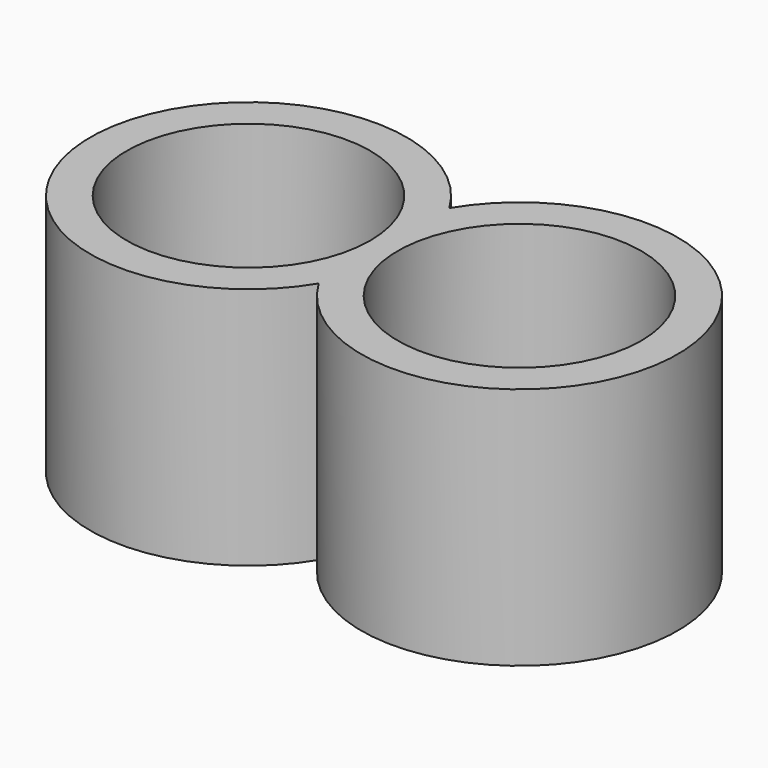
from build123d import *

# Parameters (mm, degrees)
F0_R     = 2
F1_DEPTH = 4


with BuildPart() as f1:
    # F0 (on Top) → F1 (new body)
    with BuildSketch(Plane.XY):
        with BuildLine():
            ThreePointArc((2.226748, -1.342234), (7.053497, 0), (2.226748, 1.342234))
            ThreePointArc((2.226748, 1.342234), (-2.6, 0), (2.226748, -1.342234))
        make_face()
        Circle(F0_R, mode=Mode.SUBTRACT)
        with Locations((4.453497, 0)):
            Circle(F0_R, mode=Mode.SUBTRACT)
    extrude(amount=F1_DEPTH)


solid = f1.part
